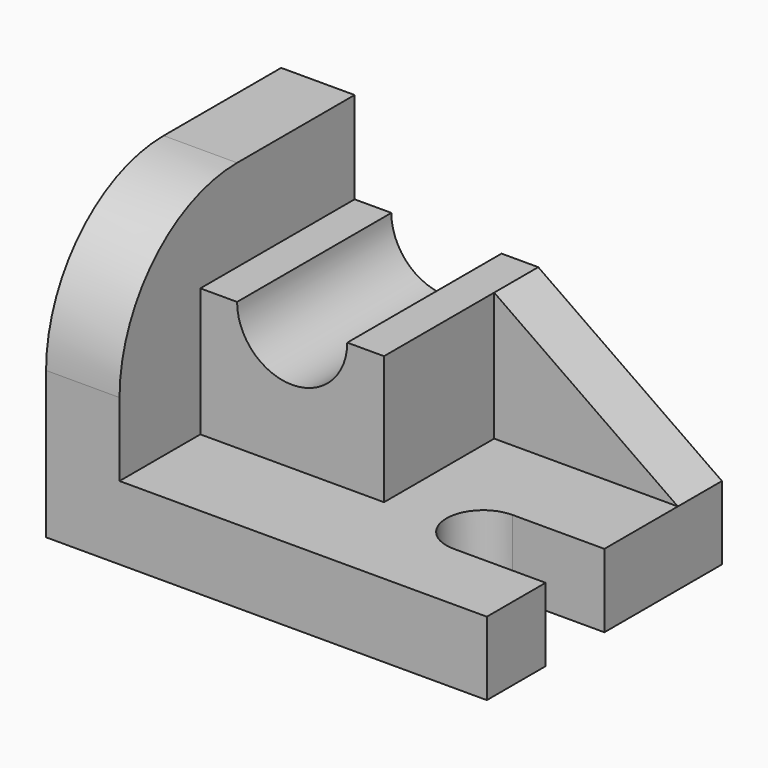
from build123d import *

# Parameters (mm, degrees)
F0_W      = 96
F0_H      = 64
F1_DEPTH  = 16
F3_DEPTH  = 16
F4_W      = 40
F4_H      = 28
F5_DEPTH  = 42
F7_DEPTH  = 42
F8_W      = 20
F8_H      = 16
F9_DEPTH  = 16
F11_DEPTH = 12


with BuildPart() as f1:
    # F0 (on Top) → F1 (new body)
    with BuildSketch(Plane.XY):
        with Locations((-0.614144, -5.436215)):
            Rectangle(F0_W, F0_H)
    extrude(amount=F1_DEPTH)

    # F2 (on face) → F3 (join)
    with BuildSketch(Plane(origin=(-48.614144, 0, 0), x_dir=(0, -1, 0), z_dir=(-1, 0, 0))):
        with BuildLine():
            Line((-26.563785, 64), (-26.563785, 16))
            Line((-26.563785, 16), (37.436215, 16))
            Line((37.436215, 16), (37.436215, 32))
            ThreePointArc((37.436215, 32), (28.063632, 54.627417), (5.436215, 64))
            Line((5.436215, 64), (-26.563785, 64))
        make_face()
    extrude(amount=-F3_DEPTH)

    # F4 (on face) → F5 (join)
    with BuildSketch(Plane(origin=(0, 26.563785, 0), x_dir=(-1, 0, 0), z_dir=(0, 1, 0))):
        with Locations((12.614144, 30)):
            Rectangle(F4_W, F4_H)
    extrude(amount=-F5_DEPTH)

    # F6 (on face) → F7 (cut)
    with BuildSketch(Plane(origin=(0, 26.563785, 0), x_dir=(-1, 0, 0), z_dir=(0, 1, 0))):
        with BuildLine():
            Line((24.614144, 44), (0.614144, 44))
            ThreePointArc((0.614144, 44), (12.614144, 32), (24.614144, 44))
        make_face()
    extrude(amount=-F7_DEPTH, mode=Mode.SUBTRACT)

    # F8 (on face) → F9 (cut)
    with BuildSketch(Plane.XY.offset(16)):
        with BuildLine():
            ThreePointArc((27.385856, -5.436215), (19.385856, -13.436215), (27.385856, -21.436215))
            Line((27.385856, -21.436215), (27.385856, -5.436215))
        make_face()
        with Locations((37.385856, -13.436215)):
            Rectangle(F8_W, F8_H)
    extrude(amount=-F9_DEPTH, mode=Mode.SUBTRACT)

    # F10 (on face) → F11 (join)
    with BuildSketch(Plane(origin=(0, 26.563785, 0), x_dir=(-1, 0, 0), z_dir=(0, 1, 0))):
        Polygon((-7.385856, 44), (-47.385856, 16), (-7.385856, 16), align=None)
    extrude(amount=-F11_DEPTH)


solid = f1.part
